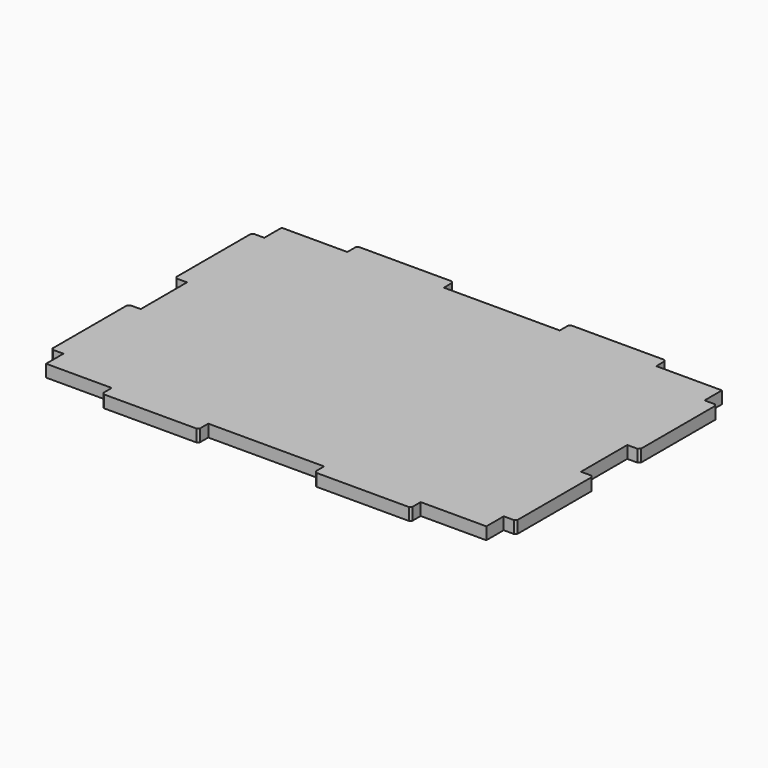
from build123d import *

# Parameters (mm, degrees)
F1_DEPTH = 12.7
F2_SIZE  = 2


with BuildPart() as f1:
    # F0 (on Top) → F1 (new body)
    with BuildSketch(Plane.XY):
        Polygon((160, -152.5), (228, -152.5), (228, -130), (240.7, -130), (240.7, -30), (228, -30), (228, 30), (240.7, 30), (240.7, 130), (228, 130), (228, 152.5), (160, 152.5), (160, 165.2), (60, 165.2), (60, 152.5), (-60, 152.5), (-60, 165.2), (-160, 165.2), (-160, 152.5), (-228, 152.5), (-228, 130), (-240.7, 130), (-240.7, 30), (-228, 30), (-228, -30), (-240.7, -30), (-240.7, -130), (-228, -130), (-228, -152.5), (-160, -152.5), (-160, -165.2), (-60, -165.2), (-60, -152.5), (60, -152.5), (60, -165.2), (160, -165.2), align=None)
    extrude(amount=F1_DEPTH)

    # F2
    f2_edges = [f1.edges().sort_by_distance(p)[0] for p in [
        (160, 165.2, 6.35),
        (240.7, 130, 6.35),
        (240.7, 30, 6.35),
        (240.7, -30, 6.35),
        (240.7, -130, 6.35),
        (160, -165.2, 6.35),
        (-60, 165.2, 6.35),
        (60, 165.2, 6.35),
        (-160, 165.2, 6.35),
        (60, -165.2, 6.35),
        (-60, -165.2, 6.35),
        (-160, -165.2, 6.35),
        (-240.7, -130, 6.35),
        (-240.7, -30, 6.35),
        (-240.7, 30, 6.35),
        (-240.7, 130, 6.35),
    ]]
    chamfer(f2_edges, length=F2_SIZE)


solid = f1.part
